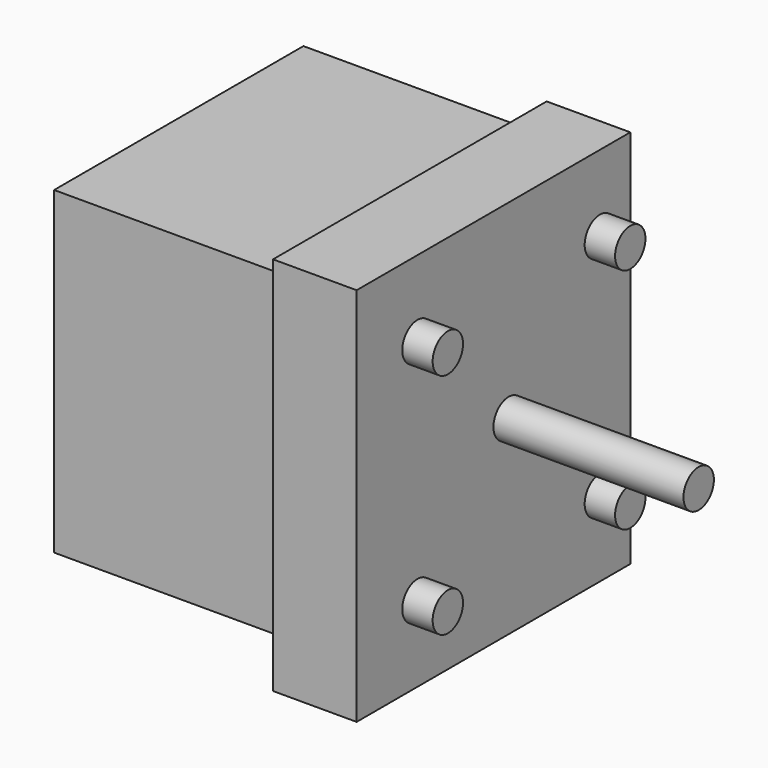
from build123d import *

# Parameters (mm, degrees)
BOX005_W                  = 41
BOX005_H                  = 42
BOX005_DEPTH              = 40
BOX004_W                  = 7
BOX004_H                  = 17
BOX004_DEPTH              = 10
CYLINDER003_R             = 2.5
CYLINDER003_DEPTH         = 25
CYLINDER002_R             = 2.5
CYLINDER002_DEPTH         = 4
BOX006_W                  = 45
BOX006_H                  = 3
BOX006_DEPTH              = 8
BOX007_W                  = 3
BOX007_H                  = 50
BOX007_DEPTH              = 8
BOX003_W                  = 45
BOX003_H                  = 50
BOX003_DEPTH              = 3
FUSION002_ROLL_ANGLE      = 90
FUSION002_PLACEMENT_ANGLE = 90


with BuildPart() as base_motor:
    # Box005 → Box005 (new body)
    with BuildSketch(Plane(origin=(4, 4, 0), x_dir=(1, 0, 0), z_dir=(0, 0, 1))):
        with Locations((20.5, 21)):
            Rectangle(BOX005_W, BOX005_H)
    extrude(amount=BOX005_DEPTH)


with BuildPart() as obj1:
    # Box004 → Box004 (new body)
    with BuildSketch(Plane(origin=(45, 16.5, 0), x_dir=(1, 0, 0), z_dir=(0, 0, 1))):
        with Locations((3.5, 8.5)):
            Rectangle(BOX004_W, BOX004_H)
    extrude(amount=BOX004_DEPTH)


with BuildPart() as motor:
    # Cylinder003 → Cylinder003 (new body)
    with BuildSketch(Plane(origin=(25, 25, 43), x_dir=(1, 0, 0), z_dir=(0, 0, 1))):
        Circle(CYLINDER003_R)
    extrude(amount=CYLINDER003_DEPTH)

    # Fusion003: union base motor, obj1
    add(base_motor.part)
    add(obj1.part)


with BuildPart() as obj2:
    # Cylinder002 → Cylinder002 (new body)
    with BuildSketch(Plane(origin=(10, 10, 43), x_dir=(1, 0, 0), z_dir=(0, 0, 1))):
        Circle(CYLINDER002_R)
    extrude(amount=CYLINDER002_DEPTH)


with BuildPart() as obj3:
    # Link003 base: copy of obj2
    add(obj2.part)


with BuildPart() as obj3_1:
    # Link003 placement: moved
    add(obj3.part.moved(Location((30, 30, 0))))


with BuildPart() as obj4:
    # Link004 base: copy of obj2
    add(obj2.part)


with BuildPart() as obj4_1:
    # Link004 placement: moved
    add(obj4.part.moved(Location((30, 0, 0))))


with BuildPart() as obj5:
    # Link005 base: copy of obj2
    add(obj2.part)


with BuildPart() as obj5_1:
    # Link005 placement: moved
    add(obj5.part.moved(Location((0, 30, 0))))


with BuildPart() as obj6:
    # Box006 → Box006 (new body)
    with BuildSketch(Plane.XY.offset(32)):
        with Locations((22.5, 1.5)):
            Rectangle(BOX006_W, BOX006_H)
    extrude(amount=BOX006_DEPTH)


with BuildPart() as lateral_der:
    # Link006 base: copy of obj6
    add(obj6.part)


with BuildPart() as lateral_der_1:
    # Link006 placement: moved
    add(lateral_der.part.moved(Location((0, 47, 0))))


with BuildPart() as obj7:
    # Box007 → Box007 (new body)
    with BuildSketch(Plane.XY.offset(32)):
        with Locations((1.5, 25)):
            Rectangle(BOX007_W, BOX007_H)
    extrude(amount=BOX007_DEPTH)


with BuildPart() as obj8:
    # Box003 → Box003 (new body)
    with BuildSketch(Plane.XY.offset(40)):
        with Locations((22.5, 25)):
            Rectangle(BOX003_W, BOX003_H)
    extrude(amount=BOX003_DEPTH)

    # Fusion004: union obj6, lateral der, obj7
    add(obj6.part)
    add(lateral_der_1.part)
    add(obj7.part)

    # Fusion002: union motor, obj3, obj4, obj5, obj2
    add(motor.part)
    add(obj3_1.part)
    add(obj4_1.part)
    add(obj5_1.part)
    add(obj2.part)


with BuildPart() as obj8_1:
    # Fusion002 roll: moved
    add(obj8.part.rotate(Axis((0, 0, 0), (1, 0, 0)), FUSION002_ROLL_ANGLE))


with BuildPart() as obj8_2:
    # Fusion002 placement: moved
    add(obj8_1.part.moved(Location((0, -22.5, 5))).rotate(Axis((0, -22.5, 5), (0, 0, 1)), FUSION002_PLACEMENT_ANGLE))


solid = obj8_2.part
